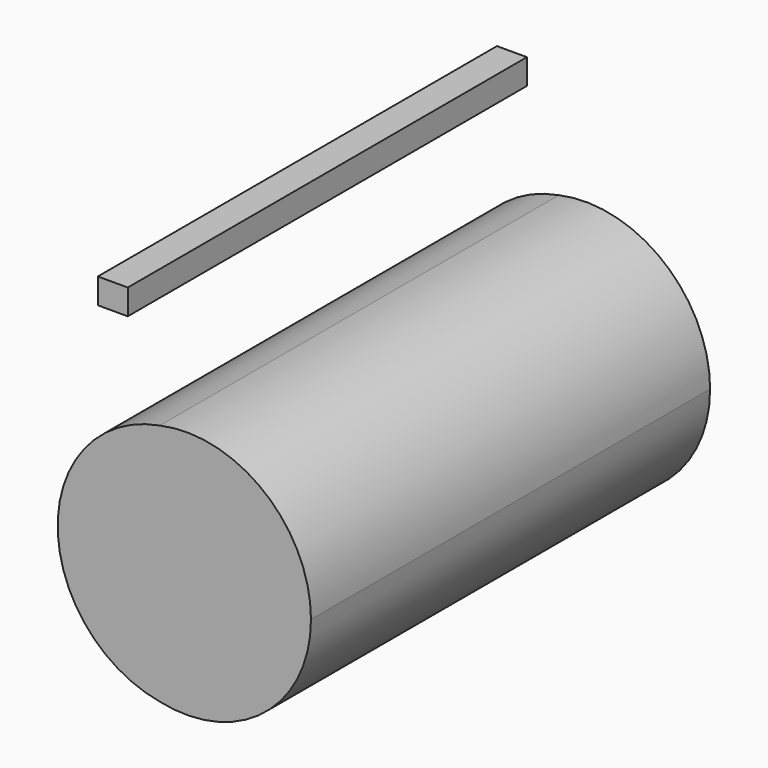
from build123d import *

# Parameters (mm, degrees)
F0_W     = 110.501614
F0_H     = 93.670245
F0_R     = 417.69557
F1_DEPTH = 1841.5


with BuildPart() as f1:
    # F0 (on Front) → F1 (new body)
    with BuildSketch(Plane.XZ):
        with Locations((-3.171129, -2.805228)):
            Rectangle(F0_W, F0_H)
        with BuildLine():
            ThreePointArc((170.113577, -1263.236372), (-190.381415, -814.647019), (170.113577, -366.057666))
            ThreePointArc((170.113577, -366.057666), (-206.618711, -814.647019), (170.113577, -1263.236372))
        make_face()
        with BuildLine():
            ThreePointArc((170.113577, -366.057666), (541.722708, -465.88096), (704.265848, -814.647019))
            ThreePointArc((704.265848, -814.647019), (541.722708, -1163.413078), (170.113577, -1263.236372))
            ThreePointArc((170.113577, -1263.236372), (556.716904, -1172.708589), (728.324957, -814.647019))
            ThreePointArc((728.324957, -814.647019), (556.716904, -456.585448), (170.113577, -366.057666))
        make_face()
        with BuildLine():
            ThreePointArc((170.113577, -1263.236372), (541.722708, -1163.413078), (704.265848, -814.647019))
            ThreePointArc((704.265848, -814.647019), (541.722708, -465.88096), (170.113577, -366.057666))
            ThreePointArc((170.113577, -366.057666), (-190.381415, -814.647019), (170.113577, -1263.236372))
        make_face()
        with Locations((248.823568, -814.647019)):
            Circle(F0_R, mode=Mode.SUBTRACT)
        with Locations((248.823568, -814.647019)):
            Circle(F0_R)
    extrude(amount=F1_DEPTH)


solid = f1.part
